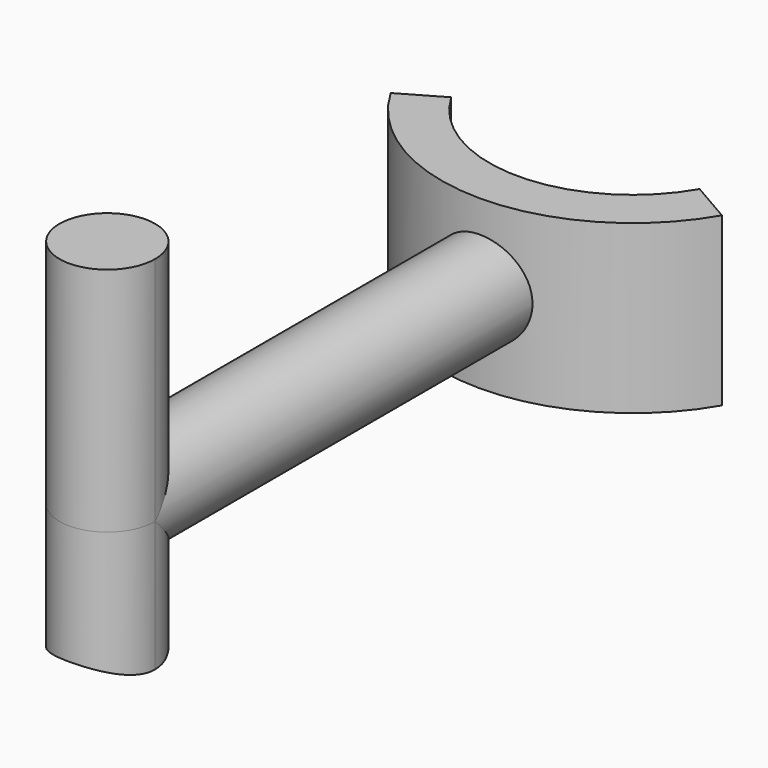
from build123d import *

# Parameters (mm, degrees)
F0_R          = 3.81
F1_DEPTH      = 52.3494
F3_DEPTH      = 25.4
F3_DEPTH_BACK = 25.4
F4_DEPTH      = 6.35
F4_DEPTH_BACK = 6.985
F6_DEPTH      = 18.415
F6_DEPTH_BACK = 18.415
F7_R          = 8.89
F8_DEPTH      = 66.62603


with BuildPart() as f1:
    # F0 (on Front) → F1 (new body)
    with BuildSketch(Plane.XZ):
        Circle(F0_R)
    extrude(amount=F1_DEPTH)

    # F2 (on Top) → F3 (cut, two sides)
    with BuildSketch(Plane.XY) as f3_sk:
        with BuildLine():
            Line((0, 0), (-11.43, 0))
            ThreePointArc((-11.43, 0), (-11.0405321945, -2.9583016855), (-9.8986703653, -5.715))
            Line((-9.8986703653, -5.715), (0, 0))
        make_face()
        with BuildLine():
            ThreePointArc((-9.8986703653, -5.715), (0, -11.43), (9.8986703653, -5.715))
            Line((9.8986703653, -5.715), (0, 0))
            Line((0, 0), (-9.8986703653, -5.715))
        make_face()
        with BuildLine():
            ThreePointArc((9.8986703653, -5.715), (11.0405321945, -2.9583016855), (11.43, 0))
            Line((11.43, 0), (0, 0))
            Line((0, 0), (9.8986703653, -5.715))
        make_face()
    extrude(amount=F3_DEPTH, mode=Mode.SUBTRACT)
    extrude(f3_sk.sketch, amount=-F3_DEPTH_BACK, mode=Mode.SUBTRACT)

    # F2 (on Top) → F4 (join, two sides)
    with BuildSketch(Plane.XY) as f4_sk:
        with BuildLine():
            Line((13.1982271537, -7.62), (9.8986703653, -5.715))
            ThreePointArc((9.8986703653, -5.715), (0, -11.43), (-9.8986703653, -5.715))
            Line((-9.8986703653, -5.715), (-13.1982271537, -7.62))
            ThreePointArc((-13.1982271537, -7.62), (0, -15.24), (13.1982271537, -7.62))
        make_face()
    extrude(amount=F4_DEPTH)
    extrude(f4_sk.sketch, amount=-F4_DEPTH_BACK)

    # F5 (on Top) → F6 (join, two sides)
    with BuildSketch(Plane.XY) as f6_sk:
        with BuildLine():
            ThreePointArc((0, -48.5394), (-2.6940768363, -55.0434768363), (3.81, -52.3494))
            ThreePointArc((3.81, -52.3494), (2.6940768363, -49.6553231637), (0, -48.5394))
        make_face()
    extrude(amount=F6_DEPTH)
    extrude(f6_sk.sketch, amount=-F6_DEPTH_BACK)

    # F7 (on Front) → F8 (cut)
    with BuildSketch(Plane.XZ):
        with Locations((0, -18.415)):
            Circle(F7_R)
    extrude(amount=F8_DEPTH, mode=Mode.SUBTRACT)


solid = f1.part
